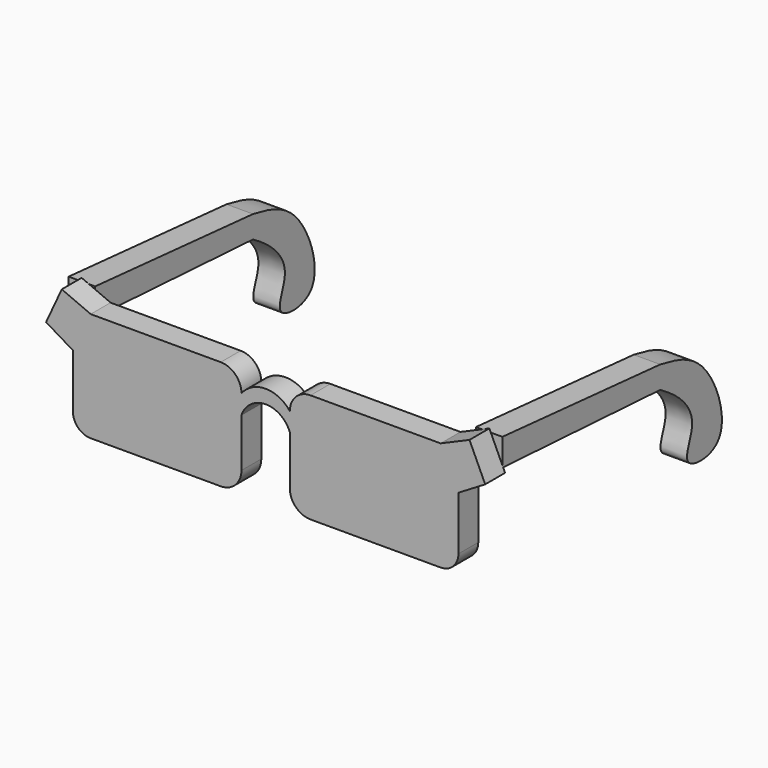
from build123d import *

# Parameters (mm, degrees)
F2_DEPTH = 7.62
F4_DEPTH = 8.128


with BuildPart() as f2:
    # F0 (on Front) → F2 (new body)
    with BuildSketch(Plane.XZ):
        with BuildLine():
            Line((45.0554708183, 14.8120513186), (20.0668001384, 14.8120513186))
            ThreePointArc((20.0668001384, 14.8120513186), (15.5766720778, 12.9521793791), (13.7168001384, 8.4620513186))
            Line((13.7168001384, 8.4620513186), (13.7168001384, -4.3689845294))
            ThreePointArc((13.7168001384, -4.3689845294), (15.5766720778, -8.8591125899), (20.0668001384, -10.7189845294))
            Line((20.0668001384, -10.7189845294), (45.0554708183, -10.7189845294))
            ThreePointArc((45.0554708183, -10.7189845294), (49.5455988788, -8.8591125899), (51.4054708183, -4.3689845294))
            Line((51.4054708183, -4.3689845294), (51.4054708183, 8.4620513186))
            ThreePointArc((51.4054708183, 8.4620513186), (49.5455988788, 12.9521793791), (45.0554708183, 14.8120513186))
        make_face()
    extrude(amount=F2_DEPTH)


with BuildPart() as f2b:
    # F0 (on Front) → F2, piece 2 (new body)
    with BuildSketch(Plane.XZ):
        with BuildLine():
            ThreePointArc((-13.7168001384, 8.4620513186), (-15.5766720778, 12.9521793791), (-20.0668001384, 14.8120513186))
            Line((-20.0668001384, 14.8120513186), (-45.0554708183, 14.8120513186))
            ThreePointArc((-45.0554708183, 14.8120513186), (-49.5455988788, 12.9521793791), (-51.4054708183, 8.4620513186))
            Line((-51.4054708183, 8.4620513186), (-51.4054708183, -4.3689845294))
            ThreePointArc((-51.4054708183, -4.3689845294), (-49.5455988788, -8.8591125899), (-45.0554708183, -10.7189845294))
            Line((-45.0554708183, -10.7189845294), (-20.0668001384, -10.7189845294))
            ThreePointArc((-20.0668001384, -10.7189845294), (-15.5766720778, -8.8591125899), (-13.7168001384, -4.3689845294))
            Line((-13.7168001384, -4.3689845294), (-13.7168001384, 8.4620513186))
        make_face()
    extrude(amount=F2_DEPTH)


with BuildPart() as f2c:
    # F1 (on Front) → F2, piece 3 (new body)
    with BuildSketch(Plane.XZ):
        with BuildLine():
            Line((53.6846289575, 18.9590360969), (13.7735331267, 18.9590360969))
            ThreePointArc((13.7735331267, 18.9590360969), (9.2834050662, 17.0991641575), (7.4235331267, 12.6090360969))
            ThreePointArc((7.4235331267, 12.6090360969), (0, 16.2681592865), (-7.4235331267, 12.6090360969))
            ThreePointArc((-7.4235331267, 12.6090360969), (-9.2834050662, 17.0991641575), (-13.7735331267, 18.9590360969))
            Line((-13.7735331267, 18.9590360969), (-53.6846289575, 18.9590360969))
            Line((-53.6846289575, 18.9590360969), (-62.5552013516, 22.7871499956))
            Line((-62.5552013516, 22.7871499956), (-67.3759877682, 12.3410997912))
            Line((-67.3759877682, 12.3410997912), (-59.1620653868, 7.4127456173))
            Line((-59.1620653868, 7.4127456173), (-59.1620653868, -9.1004813254))
            ThreePointArc((-59.1620653868, -9.1004813254), (-57.5577614002, -12.973613768), (-53.6846289575, -14.5779177547))
            Line((-53.6846289575, -14.5779177547), (-13.7735331267, -14.5779177547))
            ThreePointArc((-13.7735331267, -14.5779177547), (-9.2834050662, -12.7180458152), (-7.4235331267, -8.2279177547))
            Line((-7.4235331267, -8.2279177547), (-7.4235331267, 6.7045772448))
            ThreePointArc((-7.4235331267, 6.7045772448), (-0.072231821, 12.0715417451), (7.4235331267, 6.9082630693))
            Line((7.4235331267, 6.9082630693), (7.4235331267, -8.2279177547))
            ThreePointArc((7.4235331267, -8.2279177547), (9.2834050662, -12.7180458152), (13.7735331267, -14.5779177547))
            Line((13.7735331267, -14.5779177547), (53.6846289575, -14.5779177547))
            ThreePointArc((53.6846289575, -14.5779177547), (57.5577614002, -12.973613768), (59.1620653868, -9.1004813254))
            Line((59.1620653868, -9.1004813254), (59.1620653868, 7.4127456173))
            Line((59.1620653868, 7.4127456173), (67.3759877682, 12.3410997912))
            Line((67.3759877682, 12.3410997912), (62.5552013516, 22.7871499956))
            Line((62.5552013516, 22.7871499956), (53.6846289575, 18.9590360969))
        make_face()
    extrude(amount=F2_DEPTH)


with BuildPart() as f4:
    # F3 (on Right) → F4 (new body)
    with BuildSketch(Plane.YZ):
        with BuildLine():
            Line((60.5565495789, 16.7445801198), (0, 21.8103900552))
            Line((0, 21.8103900552), (0, 13.4667027742))
            Line((0, 13.4667027742), (60.5565495789, 9.8908366635))
            add(Edge.make_bspline(
                [(60.5565495789, 16.7445801198), (66.4868900636, 15.5993113077), (79.0036348969, 13.1820744687), (89.4333143976, -16.4943827971), (66.7532743058, -16.0757944369), (75.3964693052, -4.15373732), (68.2611086926, 5.1418495777), (63.0709627491, 8.3409860494), (60.5565495789, 9.8908366635)],
                knots=[0, 0, 0, 0, 0.1973334942, 0.4164976699, 0.571550265, 0.7122786825, 0.860610804, 1, 1, 1, 1], degree=3))
        make_face()
    extrude(amount=F4_DEPTH)


with BuildPart() as f4_1:
    # F5: moved
    add(f4.part.moved(Location((58.42, 0, 0))))


with BuildPart() as f6_1:
    # F6: instance of F4
    add(f4_1.part.mirror(Plane.YZ))


solid = Compound([f2.part, f2b.part, f2c.part, f4_1.part, f6_1.part])
